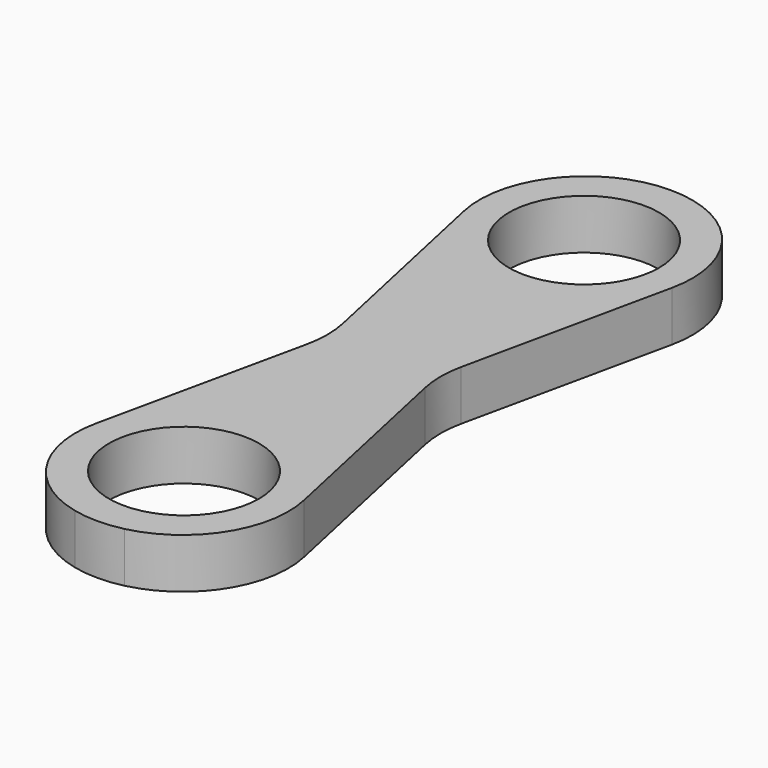
from build123d import *

# Parameters (mm, degrees)
F0_R     = 4.5
F1_DEPTH = 3


with BuildPart() as f1:
    # F0 (on Top) → F1 (new body)
    with BuildSketch(Plane.XY):
        with BuildLine():
            ThreePointArc((6.240302, 28.801392), (5.403002, 33.537122), (1.486319, 36.327784))
            ThreePointArc((1.486319, 36.327784), (0, 36.5), (-1.486319, 36.327784))
            ThreePointArc((-1.486319, 36.327784), (-5.403002, 33.537122), (-6.240302, 28.801392))
            Line((-6.240302, 28.801392), (-3.541337, 16.344634))
            ThreePointArc((-3.541337, 16.344634), (-3.397339, 15), (-3.541337, 13.655366))
            Line((-3.541337, 13.655366), (-6.240302, 1.198608))
            ThreePointArc((-6.240302, 1.198608), (-5.403002, -3.537122), (-1.486319, -6.327784))
            ThreePointArc((-1.486319, -6.327784), (0, -6.5), (1.486319, -6.327784))
            ThreePointArc((1.486319, -6.327784), (5.403002, -3.537122), (6.240302, 1.198608))
            Line((6.240302, 1.198608), (3.541337, 13.655366))
            ThreePointArc((3.541337, 13.655366), (3.397339, 15), (3.541337, 16.344634))
            Line((3.541337, 16.344634), (6.240302, 28.801392))
        make_face()
        Circle(F0_R, mode=Mode.SUBTRACT)
        with Locations((0, 30)):
            Circle(F0_R, mode=Mode.SUBTRACT)
    extrude(amount=F1_DEPTH)


solid = f1.part
